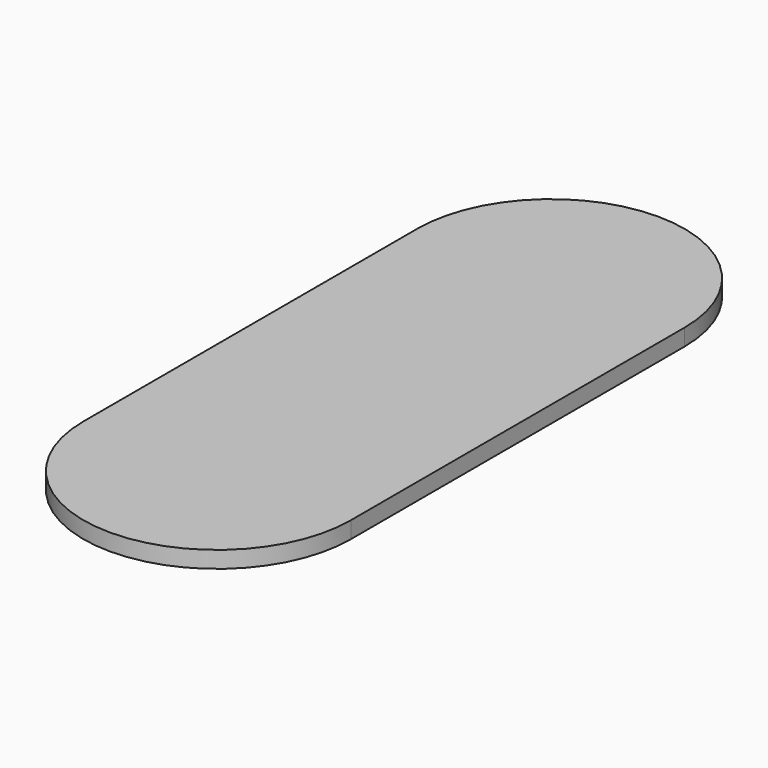
from build123d import *

# Parameters (mm, degrees)
F1_DEPTH = 25


with BuildPart() as f1:
    # F0 (on Top) → F1 (new body)
    with BuildSketch(Plane.XY):
        with BuildLine():
            ThreePointArc((-200, 312), (0, 112), (200, 312))
            ThreePointArc((200, 312), (0, 512), (-200, 312))
        make_face()
        with BuildLine():
            Line((200, -312), (200, 312))
            ThreePointArc((200, 312), (0, 112), (-200, 312))
            Line((-200, 312), (-200, -312))
            ThreePointArc((-200, -312), (0, -112), (200, -312))
        make_face()
        with BuildLine():
            ThreePointArc((-200, -312), (0, -512), (200, -312))
            ThreePointArc((200, -312), (0, -112), (-200, -312))
        make_face()
    extrude(amount=F1_DEPTH)


solid = f1.part
